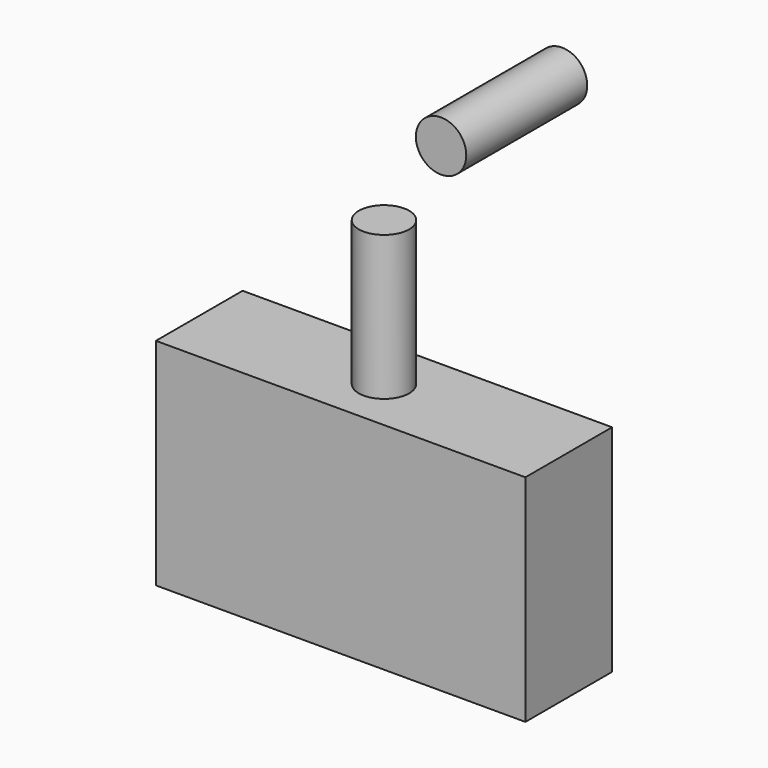
from build123d import *

# Parameters (mm, degrees)
F0_W     = 1466
F0_H     = 854.411854
F1_DEPTH = 215
F0_R     = 100
F2_DEPTH = 300
F3_R     = 100
F4_DEPTH = 1000


with BuildPart() as f1:
    # F0 (on Front) → F1 (new body, symmetric)
    with BuildSketch(Plane.XZ):
        Rectangle(F0_W, F0_H)
    extrude(amount=F1_DEPTH, both=True)

    # F3 (on Top) → F4 (join)
    with BuildSketch(Plane.XY):
        Circle(F3_R)
    extrude(amount=F4_DEPTH)


with BuildPart() as f2:
    # F0 (on Front) → F2 (new body, symmetric)
    with BuildSketch(Plane.XZ):
        with Locations((466.380358, 1532.205927)):
            Circle(F0_R)
    extrude(amount=F2_DEPTH, both=True)


solid = Compound([f1.part, f2.part])
